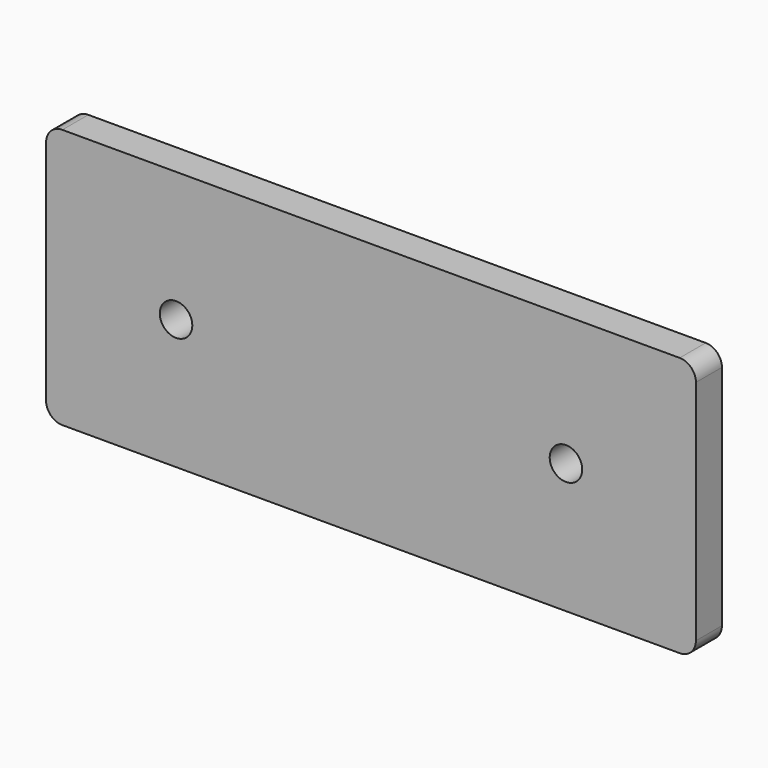
from build123d import *

# Parameters (mm, degrees)
F0_W     = 254
F0_H     = 101.6
F0_R     = 6.35
F1_DEPTH = 12.7
F2_R     = 6.35


with BuildPart() as f1:
    # F0 (on Front) → F1 (new body)
    with BuildSketch(Plane.XZ):
        with Locations((127, 50.8)):
            Rectangle(F0_W, F0_H)
        with Locations((50.8, 50.8)):
            Circle(F0_R, mode=Mode.SUBTRACT)
        with Locations((203.2, 50.8)):
            Circle(F0_R, mode=Mode.SUBTRACT)
    extrude(amount=F1_DEPTH)

    # F2
    f2_edges = [f1.edges().sort_by_distance(p)[0] for p in [
        (0, -6.35, 101.6),
        (254, -6.35, 101.6),
        (254, -6.35, 0),
        (0, -6.35, 0),
    ]]
    fillet(f2_edges, radius=F2_R)


solid = f1.part
